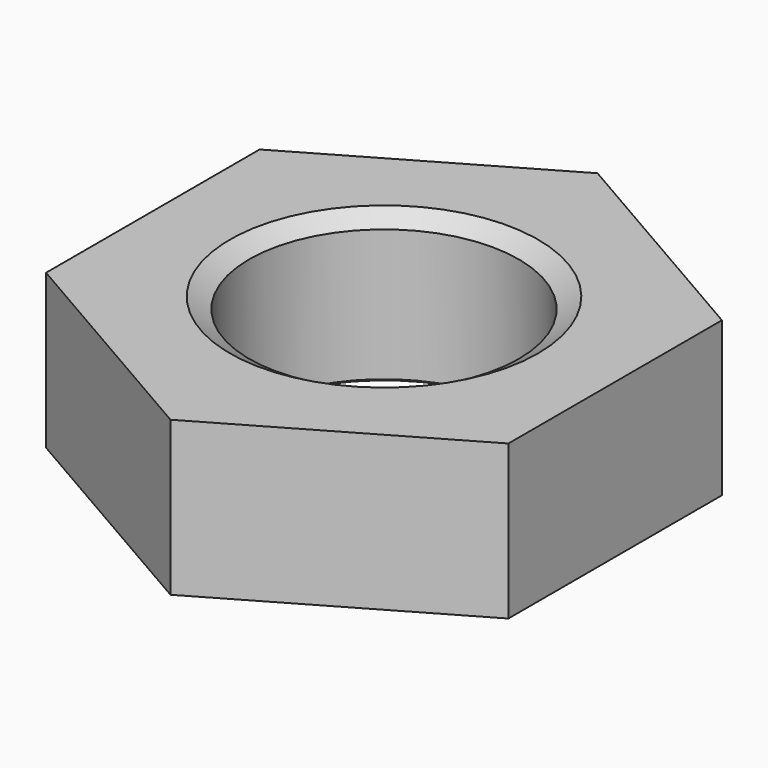
from build123d import *

# Parameters (mm, degrees)
SKETCH001_R  = 14.5
POCKET_DEPTH = 8


with BuildPart() as part:
    # Sketch → Revolution (revolve)
    with BuildSketch(Plane.XZ):
        Polygon((8, 0), (7, 0.57735), (7, 7.42265), (8, 8), (14.5, 8), (14.5, 0), align=None)
    revolve(axis=Axis((0, 0, 0), (0, 0, 1)))

    # Sketch001 → Pocket (cut)
    with BuildSketch(Plane(origin=(0, 0, 8), x_dir=(-1, 0, 0), z_dir=(0, 0, 1))):
        Circle(SKETCH001_R)
        Polygon((-12, 6.928203), (-12, -6.928203), (0, -13.856406), (12, -6.928203), (12, 6.928203), (0, 13.856406), align=None, mode=Mode.SUBTRACT)
    extrude(amount=-POCKET_DEPTH, mode=Mode.SUBTRACT)


solid = part.part
